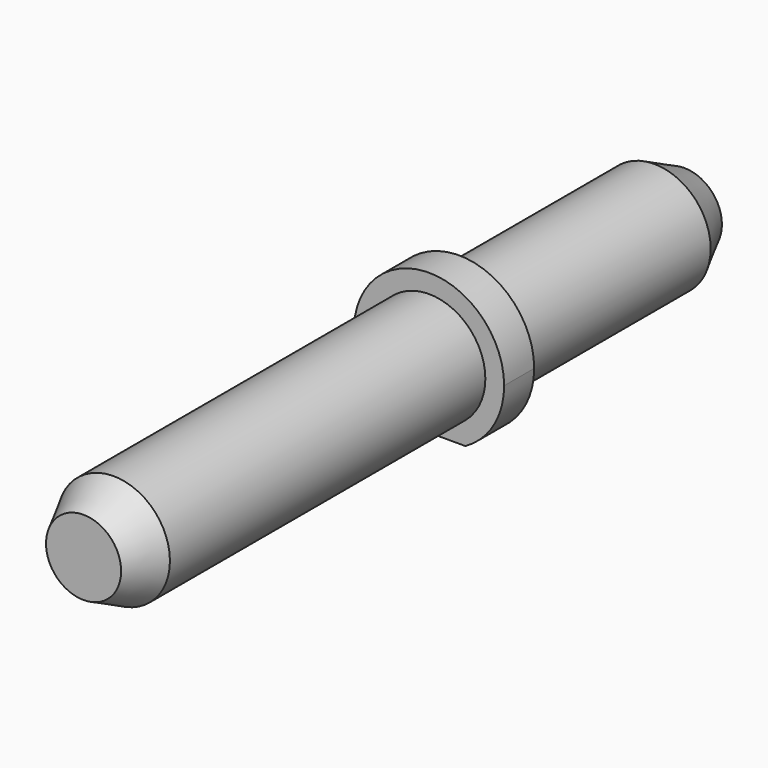
from build123d import *

# Parameters (mm, degrees)
F0_R     = 3
F1_DEPTH = 25
F2_DEPTH = 2
F3_DEPTH = 15
F4_SIZE2 = 1
F4_SIZE  = 2
F5_SIZE2 = 2
F5_SIZE  = 1


with BuildPart() as f1:
    # F0 (on Front) → F1 (new body)
    with BuildSketch(Plane.XZ):
        Circle(F0_R)
    extrude(amount=F1_DEPTH)

    # F0 (on Front) → F2 (join)
    with BuildSketch(Plane.XZ):
        with BuildLine():
            ThreePointArc((1.9364916731, -3.5), (3.4457195687, -2.0315060063), (4, 0))
            ThreePointArc((4, 0), (-2.0315060063, 3.4457195687), (-1.9364916731, -3.5))
            Line((-1.9364916731, -3.5), (1.9364916731, -3.5))
        make_face()
        Circle(F0_R, mode=Mode.SUBTRACT)
    extrude(amount=F2_DEPTH)

    # F0 (on Front) → F3 (join)
    with BuildSketch(Plane.XZ):
        Circle(F0_R)
    extrude(amount=-F3_DEPTH)

    # F4
    f4_edges = [f1.edges().sort_by_distance(p)[0] for p in [
        (-3, 15, 0),
    ]]
    f4_side = f1.faces().sort_by_distance((-3, 7.5, 0))[0]
    chamfer(f4_edges, length=F4_SIZE, length2=F4_SIZE2, reference=f4_side)

    # F5
    f5_edges = [f1.edges().sort_by_distance(p)[0] for p in [
        (-3, -25, 0),
    ]]
    f5_side = f1.faces().sort_by_distance((0, -25, 0))[0]
    chamfer(f5_edges, length=F5_SIZE, length2=F5_SIZE2, reference=f5_side)


solid = f1.part
